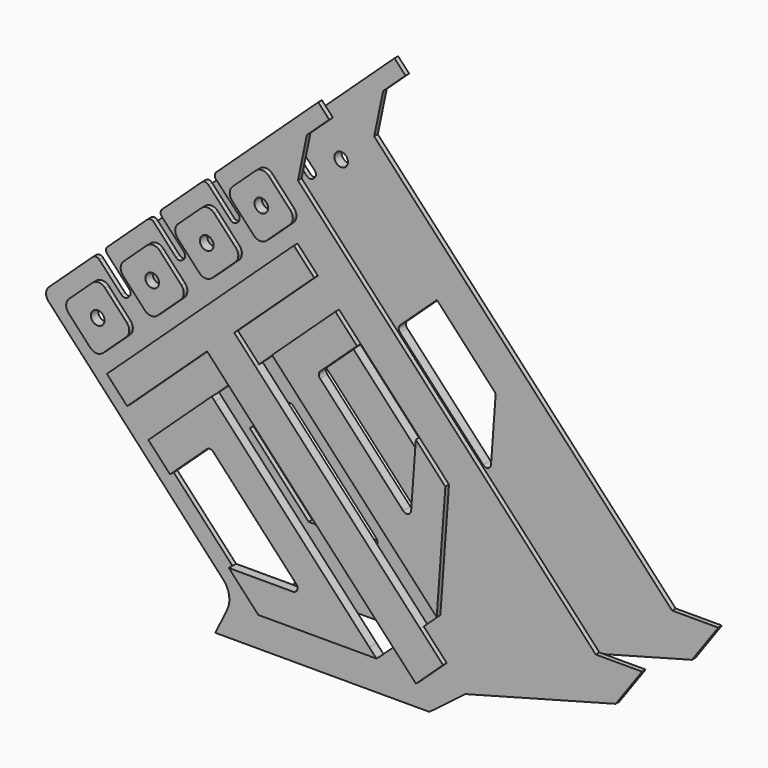
from build123d import *

# Parameters (mm, degrees)
F1_DEPTH = 1
F0_R     = 1.5
F2_DEPTH = 2


with BuildPart() as f1:
    # F0 (on Front) → F1 (new body)
    with BuildSketch(Plane.XZ):
        with BuildLine():
            Line((2.576716, 5.301209), (0, 0))
            Line((0, 0), (47.16, 0))
            Line((47.16, 0), (55.126912, 6.043866))
            Line((55.126912, 6.043866), (88.199451, 14.90867))
            Line((88.199451, 14.90867), (94.011831, 23.046006))
            Line((94.011831, 23.046006), (83.820487, 23.046006))
            Line((83.820487, 23.046006), (18.193853, 93.670501))
            Line((18.193853, 93.670501), (20.159347, 103.124544))
            Line((20.159347, 103.124544), (25.085032, 107.701655))
            Line((25.085032, 107.701655), (22.671648, 110.298833))
            Line((22.671648, 110.298833), (0.192558, 89.410514))
            ThreePointArc((0.192558, 89.410514), (-0.126259, 88.708647), (0.148905, 87.988545))
            Line((0.148905, 87.988545), (5.089522, 82.797476))
            ThreePointArc((5.089522, 82.797476), (5.364687, 82.077374), (5.045869, 81.375507))
            Line((5.045869, 81.375507), (4.758776, 81.108731))
            ThreePointArc((4.758776, 81.108731), (4.041408, 80.841955), (3.345513, 81.160572))
            Line((3.345513, 81.160572), (-1.548639, 86.427443))
            ThreePointArc((-1.548639, 86.427443), (-2.244534, 86.74606), (-2.961902, 86.479283))
            Line((-2.961902, 86.479283), (-11.752523, 78.310746))
            ThreePointArc((-11.752523, 78.310746), (-12.071139, 77.614851), (-11.804363, 76.897483))
            Line((-11.804363, 76.897483), (-6.906725, 71.626861))
            ThreePointArc((-6.906725, 71.626861), (-6.639949, 70.909493), (-6.958566, 70.213598))
            Line((-6.958566, 70.213598), (-7.254465, 69.938638))
            ThreePointArc((-7.254465, 69.938638), (-7.971833, 69.671862), (-8.667728, 69.990479))
            Line((-8.667728, 69.990479), (-13.565366, 75.2611))
            ThreePointArc((-13.565366, 75.2611), (-14.261261, 75.579717), (-14.978629, 75.312941))
            Line((-14.978629, 75.312941), (-23.769248, 67.144404))
            ThreePointArc((-23.769248, 67.144404), (-24.087865, 66.448509), (-23.821089, 65.731141))
            Line((-23.821089, 65.731141), (-18.919966, 60.456769))
            ThreePointArc((-18.919966, 60.456769), (-18.65319, 59.739401), (-18.971807, 59.043506))
            Line((-18.971807, 59.043506), (-19.265971, 58.770159))
            ThreePointArc((-19.265971, 58.770159), (-19.982866, 58.503365), (-20.678589, 58.821305))
            Line((-20.678589, 58.821305), (-25.585999, 64.092421))
            ThreePointArc((-25.585999, 64.092421), (-26.281722, 64.410361), (-26.998617, 64.143567))
            Line((-26.998617, 64.143567), (-36.665037, 55.161207))
            ThreePointArc((-36.665037, 55.161207), (-37.30227, 53.769417), (-36.768718, 52.334681))
            Line((-36.768718, 52.334681), (1.742549, 10.890551))
            ThreePointArc((1.742549, 10.890551), (3.02502, 8.225033), (2.576716, 5.301209))
        make_face()
        with BuildLine():
            ThreePointArc((-31.539644, 52.142872), (-32.073197, 53.577608), (-31.435964, 54.969398))
            Line((-31.435964, 54.969398), (-26.308102, 59.734378))
            ThreePointArc((-26.308102, 59.734378), (-24.873366, 60.267931), (-23.481576, 59.630698))
            Line((-23.481576, 59.630698), (-18.716596, 54.502836))
            ThreePointArc((-18.716596, 54.502836), (-18.183043, 53.0681), (-18.820276, 51.67631))
            Line((-18.820276, 51.67631), (-23.948138, 46.91133))
            ThreePointArc((-23.948138, 46.91133), (-25.382874, 46.377778), (-26.774664, 47.015011))
            Line((-26.774664, 47.015011), (-31.539644, 52.142872))
        make_face(mode=Mode.SUBTRACT)
        Polygon((-18.635837, 38.314563), (-23.106083, 43.125246), (18.103656, 81.418709), (22.573903, 76.608027), (4.958212, 60.23894), (9.633272, 55.207847), (13.288184, 58.604114), (14.020736, 59.284825), (27.248962, 71.576934), (32.013942, 66.449072), (44.970323, 52.505985), (51.474956, 45.505985), (49.737046, 21.848504), (49.568955, 19.560345), (45.914042, 16.164079), (50.970219, 10.722844), (44.991861, 5.167553), (39.935683, 10.608788), (36.280771, 7.212522), (33.986446, 7.212522), (10.265216, 7.212522), (3.760583, 14.212522), (-9.195798, 28.155609), (-13.960778, 33.28347), (-0.732552, 45.575579), (0, 46.25629), (3.654913, 49.652557), (-1.020146, 54.68365), align=None, mode=Mode.SUBTRACT)
        with BuildLine():
            ThreePointArc((-19.526403, 63.312965), (-20.059955, 64.747701), (-19.422722, 66.139491))
            Line((-19.422722, 66.139491), (-14.294861, 70.904471))
            ThreePointArc((-14.294861, 70.904471), (-12.860125, 71.438024), (-11.468334, 70.800791))
            Line((-11.468334, 70.800791), (-6.703354, 65.672929))
            ThreePointArc((-6.703354, 65.672929), (-6.169802, 64.238193), (-6.807035, 62.846403))
            Line((-6.807035, 62.846403), (-11.934897, 58.081423))
            ThreePointArc((-11.934897, 58.081423), (-13.369633, 57.54787), (-14.761423, 58.185103))
            Line((-14.761423, 58.185103), (-19.526403, 63.312965))
        make_face(mode=Mode.SUBTRACT)
        with BuildLine():
            ThreePointArc((-7.513161, 74.483058), (-8.046714, 75.917794), (-7.409481, 77.309584))
            Line((-7.409481, 77.309584), (-2.281619, 82.074564))
            ThreePointArc((-2.281619, 82.074564), (-0.846883, 82.608117), (0.544907, 81.970884))
            Line((0.544907, 81.970884), (5.309887, 76.843022))
            ThreePointArc((5.309887, 76.843022), (5.84344, 75.408286), (5.206207, 74.016496))
            Line((5.206207, 74.016496), (0.078345, 69.251516))
            ThreePointArc((0.078345, 69.251516), (-1.356391, 68.717963), (-2.748181, 69.355196))
            Line((-2.748181, 69.355196), (-7.513161, 74.483058))
        make_face(mode=Mode.SUBTRACT)
        with BuildLine():
            ThreePointArc((4.50008, 85.653151), (3.966528, 87.087887), (4.603761, 88.479677))
            Line((4.603761, 88.479677), (9.731622, 93.244657))
            ThreePointArc((9.731622, 93.244657), (11.166358, 93.778209), (12.558149, 93.140976))
            Line((12.558149, 93.140976), (17.323129, 88.013115))
            ThreePointArc((17.323129, 88.013115), (17.856681, 86.578379), (17.219448, 85.186588))
            Line((17.219448, 85.186588), (12.091586, 80.421609))
            ThreePointArc((12.091586, 80.421609), (10.65685, 79.888056), (9.26506, 80.525289))
            Line((9.26506, 80.525289), (4.50008, 85.653151))
        make_face(mode=Mode.SUBTRACT)
    extrude(amount=F1_DEPTH)

    # F0 (on Front) → F2 (join)
    with BuildSketch(Plane.XZ):
        with BuildLine():
            Line((9.731622, 93.244657), (4.603761, 88.479677))
            ThreePointArc((4.603761, 88.479677), (3.966528, 87.087887), (4.50008, 85.653151))
            Line((4.50008, 85.653151), (9.26506, 80.525289))
            ThreePointArc((9.26506, 80.525289), (10.65685, 79.888056), (12.091586, 80.421609))
            Line((12.091586, 80.421609), (17.219448, 85.186588))
            ThreePointArc((17.219448, 85.186588), (17.856681, 86.578379), (17.323129, 88.013115))
            Line((17.323129, 88.013115), (12.558149, 93.140976))
            ThreePointArc((12.558149, 93.140976), (11.166358, 93.778209), (9.731622, 93.244657))
        make_face()
        with Locations((10.911604, 86.833133)):
            Circle(F0_R, mode=Mode.SUBTRACT)
        with BuildLine():
            Line((-2.281619, 82.074564), (-7.409481, 77.309584))
            ThreePointArc((-7.409481, 77.309584), (-8.046714, 75.917794), (-7.513161, 74.483058))
            Line((-7.513161, 74.483058), (-2.748181, 69.355196))
            ThreePointArc((-2.748181, 69.355196), (-1.356391, 68.717963), (0.078345, 69.251516))
            Line((0.078345, 69.251516), (5.206207, 74.016496))
            ThreePointArc((5.206207, 74.016496), (5.84344, 75.408286), (5.309887, 76.843022))
            Line((5.309887, 76.843022), (0.544907, 81.970884))
            ThreePointArc((0.544907, 81.970884), (-0.846883, 82.608117), (-2.281619, 82.074564))
        make_face()
        with Locations((-1.101637, 75.66304)):
            Circle(F0_R, mode=Mode.SUBTRACT)
        with BuildLine():
            Line((-14.294861, 70.904471), (-19.422722, 66.139491))
            ThreePointArc((-19.422722, 66.139491), (-20.059955, 64.747701), (-19.526403, 63.312965))
            Line((-19.526403, 63.312965), (-14.761423, 58.185103))
            ThreePointArc((-14.761423, 58.185103), (-13.369633, 57.54787), (-11.934897, 58.081423))
            Line((-11.934897, 58.081423), (-6.807035, 62.846403))
            ThreePointArc((-6.807035, 62.846403), (-6.169802, 64.238193), (-6.703354, 65.672929))
            Line((-6.703354, 65.672929), (-11.468334, 70.800791))
            ThreePointArc((-11.468334, 70.800791), (-12.860125, 71.438024), (-14.294861, 70.904471))
        make_face()
        with Locations((-13.114879, 64.492947)):
            Circle(F0_R, mode=Mode.SUBTRACT)
        with BuildLine():
            Line((-26.308102, 59.734378), (-31.435964, 54.969398))
            ThreePointArc((-31.435964, 54.969398), (-32.073197, 53.577608), (-31.539644, 52.142872))
            Line((-31.539644, 52.142872), (-26.774664, 47.015011))
            ThreePointArc((-26.774664, 47.015011), (-25.382874, 46.377778), (-23.948138, 46.91133))
            Line((-23.948138, 46.91133), (-18.820276, 51.67631))
            ThreePointArc((-18.820276, 51.67631), (-18.183043, 53.0681), (-18.716596, 54.502836))
            Line((-18.716596, 54.502836), (-23.481576, 59.630698))
            ThreePointArc((-23.481576, 59.630698), (-24.873366, 60.267931), (-26.308102, 59.734378))
        make_face()
        with Locations((-25.12812, 53.322854)):
            Circle(F0_R, mode=Mode.SUBTRACT)
        Polygon((18.103656, 81.418709), (-23.106083, 43.125246), (-18.635837, 38.314563), (-1.020146, 54.68365), (3.654913, 49.652557), (39.935683, 10.608788), (44.991861, 5.167553), (50.970219, 10.722844), (45.914042, 16.164079), (9.633272, 55.207847), (4.958212, 60.23894), (22.573903, 76.608027), align=None)
        with BuildLine():
            Line((14.020736, 59.284825), (13.288184, 58.604114))
            Line((13.288184, 58.604114), (13.968896, 57.871562))
            Line((13.968896, 57.871562), (48.007182, 21.241057))
            Line((48.007182, 21.241057), (49.568955, 19.560345))
            Line((49.568955, 19.560345), (49.737046, 21.848504))
            Line((49.737046, 21.848504), (51.474956, 45.505985))
            Line((51.474956, 45.505985), (44.970323, 52.505985))
            Line((44.970323, 52.505985), (43.932496, 38.378465))
            ThreePointArc((43.932496, 38.378465), (43.266503, 37.50821), (42.202632, 37.771017))
            Line((42.202632, 37.771017), (23.861738, 57.508681))
            ThreePointArc((23.861738, 57.508681), (23.594961, 58.226049), (23.913578, 58.921944))
            Line((23.913578, 58.921944), (32.013942, 66.449072))
            Line((32.013942, 66.449072), (27.248962, 71.576934))
            Line((27.248962, 71.576934), (14.020736, 59.284825))
        make_face()
        with BuildLine():
            Line((0.680711, 45.523739), (0, 46.25629))
            Line((0, 46.25629), (-0.732552, 45.575579))
            Line((-0.732552, 45.575579), (-13.960778, 33.28347))
            Line((-13.960778, 33.28347), (-9.195798, 28.155609))
            Line((-9.195798, 28.155609), (-1.095433, 35.682737))
            ThreePointArc((-1.095433, 35.682737), (-0.378065, 35.949513), (0.31783, 35.630897))
            Line((0.31783, 35.630897), (18.658724, 15.893233))
            ThreePointArc((18.658724, 15.893233), (18.842882, 14.812967), (17.926172, 14.212522))
            Line((17.926172, 14.212522), (3.760583, 14.212522))
            Line((3.760583, 14.212522), (10.265216, 7.212522))
            Line((10.265216, 7.212522), (33.986446, 7.212522))
            Line((33.986446, 7.212522), (36.280771, 7.212522))
            Line((36.280771, 7.212522), (34.718998, 8.893233))
            Line((34.718998, 8.893233), (0.680711, 45.523739))
        make_face()
    extrude(amount=F2_DEPTH)


with BuildPart() as f4_1:
    # F4: instance of F1
    add(f1.part.mirror(Plane.XZ.offset(-10)))


solid = Compound([f1.part, f4_1.part])
